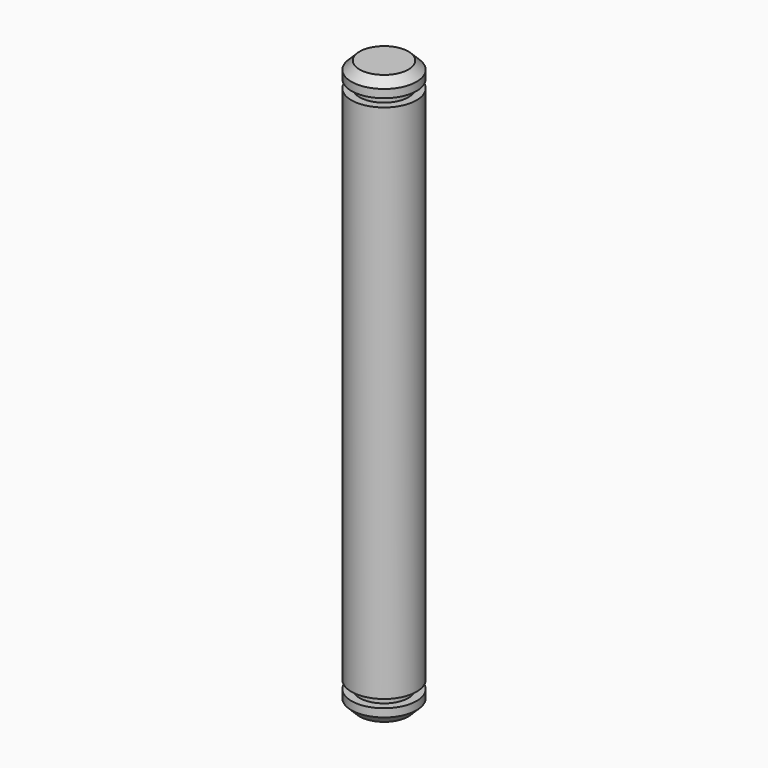
from build123d import *

# Parameters (mm, degrees)
F2_SIZE2 = 1
F2_SIZE  = 1


with BuildPart() as f1:
    # F0 (on Front) → F1 (revolve)
    with BuildSketch(Plane.XZ):
        Polygon((4, 35), (0, 35), (0, -35), (4, -35), (4, -33), (3, -33), (3, -32), (4, -32), (4, 32), (3, 32), (3, 33), (4, 33), align=None)
    revolve(axis=Axis((0, 0, 0), (0, 0, -1)))

    # F2
    f2_edges = [f1.edges().sort_by_distance(p)[0] for p in [
        (-4, 0, 35),
        (-4, 0, -35),
    ]]
    chamfer(f2_edges, length=F2_SIZE, length2=F2_SIZE2)


solid = f1.part
